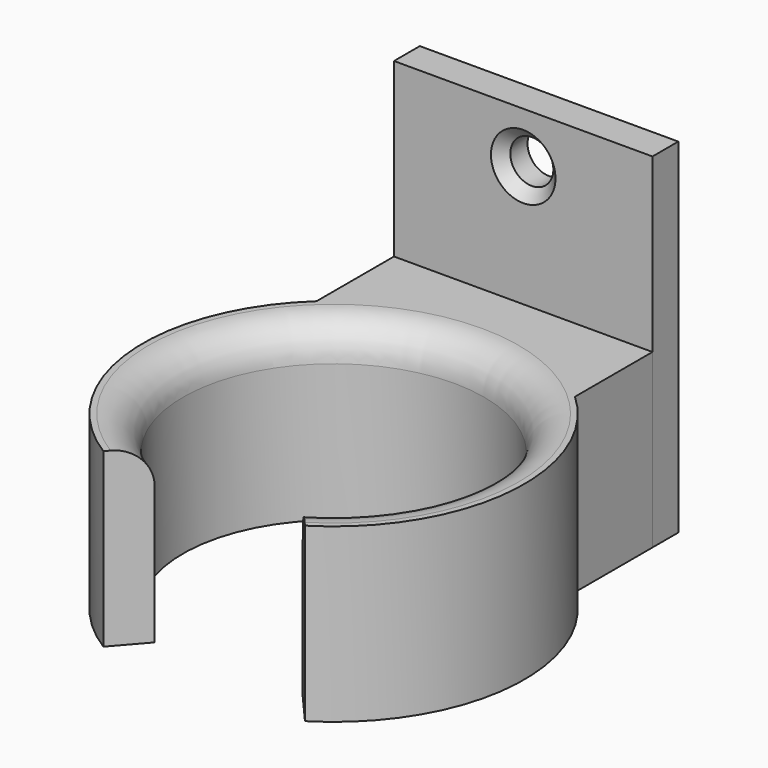
from build123d import *

# Parameters (mm, degrees)
F1_DEPTH       = 25.4
F0_W           = 38.142491
F0_H           = 4.7625
F2_DEPTH       = 50.8
F4_D           = 6.35
F4_CSINK_D     = 9.525
F4_CSINK_ANGLE = 90
F5_R           = 5.08


with BuildPart() as f1:
    # F0 (on Top) → F1 (new body)
    with BuildSketch(Plane.XY):
        with BuildLine():
            Line((-26.27681, 54.485713), (-64.419301, 54.485713))
            Line((-64.419301, 54.485713), (-64.419301, 49.723213))
            Line((-64.419301, 49.723213), (-64.419301, 40.198213))
            ThreePointArc((-64.419301, 40.198213), (-45.348056, 47.647605), (-26.27681, 40.198213))
            Line((-26.27681, 40.198213), (-26.27681, 49.723213))
            Line((-26.27681, 49.723213), (-26.27681, 54.485713))
        make_face()
        with BuildLine():
            ThreePointArc((-26.27681, 40.198213), (-45.348056, 47.647605), (-64.419301, 40.198213))
            ThreePointArc((-64.419301, 40.198213), (-73.361199, 16.87444), (-60.224942, -4.37161))
            Line((-60.224942, -4.37161), (-56.27555, 0.157641))
            ThreePointArc((-56.27555, 0.157641), (-45.348056, 41.73569), (-34.420562, 0.157641))
            Line((-34.420562, 0.157641), (-30.471169, -4.37161))
            ThreePointArc((-30.471169, -4.37161), (-17.334912, 16.87444), (-26.27681, 40.198213))
        make_face()
    extrude(amount=F1_DEPTH)

    # F0 (on Top) → F2 (join)
    with BuildSketch(Plane.XY):
        with Locations((-45.348055, 56.866963)):
            Rectangle(F0_W, F0_H)
    extrude(amount=F2_DEPTH)

    # F4 (through all)
    with Locations(Plane.XZ.offset(-54.485713)):
        with Locations((-45.348056, 43.292329)):
            CounterSinkHole(F4_D / 2, F4_CSINK_D / 2, counter_sink_angle=F4_CSINK_ANGLE)

    # F5
    f5_edges = [f1.edges().sort_by_distance(p)[0] for p in [
        (-45.348056, 41.73569, 25.4),
    ]]
    fillet(f5_edges, radius=F5_R)


solid = f1.part
